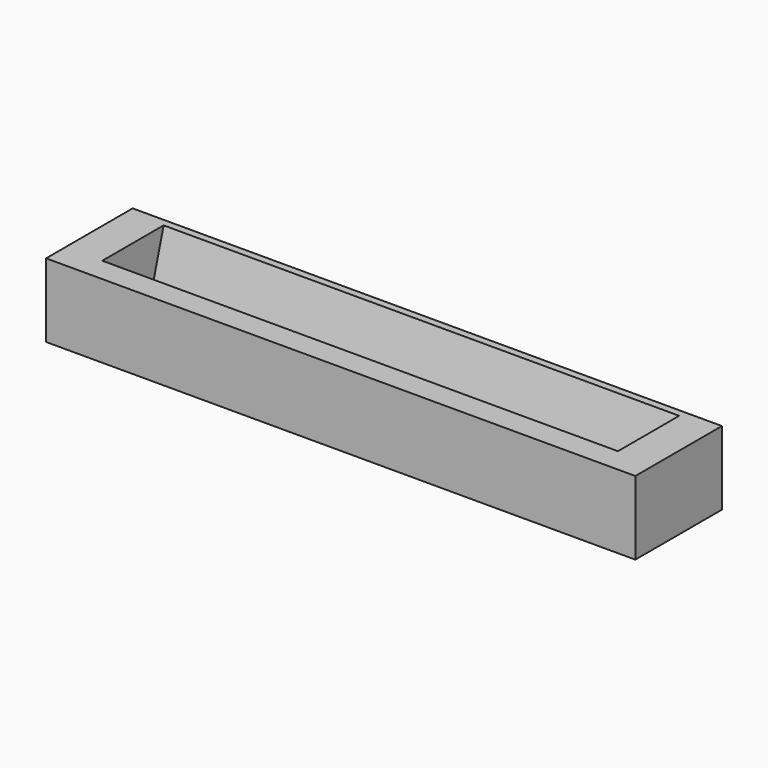
from build123d import *

# Parameters (mm, degrees)
F1_DEPTH = 35
F3_W     = 14.1933254312
F3_H     = 10
F4_DEPTH = 5
F6_DEPTH = 5
F8_DEPTH = 0.5
F9_DEPTH = 200


with BuildPart() as f1:
    # F0 (on Right) → F1 (new body, symmetric)
    with BuildSketch(Plane.YZ):
        Polygon((4.0779394949, -1.9816074769), (-5.5346774645, 0.7747660812), (-3.7443463919, 7.0183925231), (-6.5346774645, 7.0183925231), (-6.5346774645, -2.9816074769), (7.6586479667, -2.9816074769), (7.6586479667, 7.0183925231), (6.6586479667, 7.0183925231), align=None)
    extrude(amount=F1_DEPTH, both=True)


with BuildPart() as f1_1:
    # F2: moved
    add(f1.part.moved(Location((0, 0, 2.9817))))

    # F3 (on face) → F4 (join)
    with BuildSketch(Plane(origin=(-35, 0, 0), x_dir=(0, -1, 0), z_dir=(-1, 0, 0))):
        with Locations((-0.5619852511, 5.0000925231)):
            Rectangle(F3_W, F3_H)
    extrude(amount=F4_DEPTH)

    # F5 (on face) → F6 (join)
    with BuildSketch(Plane.YZ.offset(35)):
        Polygon((-3.7443463919, 10.0000925231), (-6.5346774645, 10.0000925231), (-6.5346774645, 9.25231e-05), (7.6586479667, 9.25231e-05), (7.6586479667, 10.0000925231), (6.6586479667, 10.0000925231), (4.0779394949, 1.0000925231), (-5.5346774645, 3.7564660812), align=None)
        Polygon((6.6586479667, 10.0000925231), (-3.7443463919, 10.0000925231), (-5.5346774645, 3.7564660812), (4.0779394949, 1.0000925231), align=None)
    extrude(amount=F6_DEPTH)

    # F8 (add): a face of the model
    f8_faces = [f1_1.faces().sort_by_distance(p)[0] for p in [
        (0, -6.5346774645, 5.0000925231),
    ]]
    extrude(f8_faces, amount=F8_DEPTH)

    # F7 (on face) → F9 (cut)
    with BuildSketch(Plane(origin=(0, 0.574809482, 2.00459889), x_dir=(1, 0, 0), z_dir=(0, 0.2756373558, 0.9612616959))):
        Polygon((15, 3.6443041761), (0, 3.6443041761), (-15, 3.6443041761), (-15, -6.3556958239), (15, -6.3556958239), align=None)
    extrude(amount=-F9_DEPTH, mode=Mode.SUBTRACT)


solid = f1_1.part
